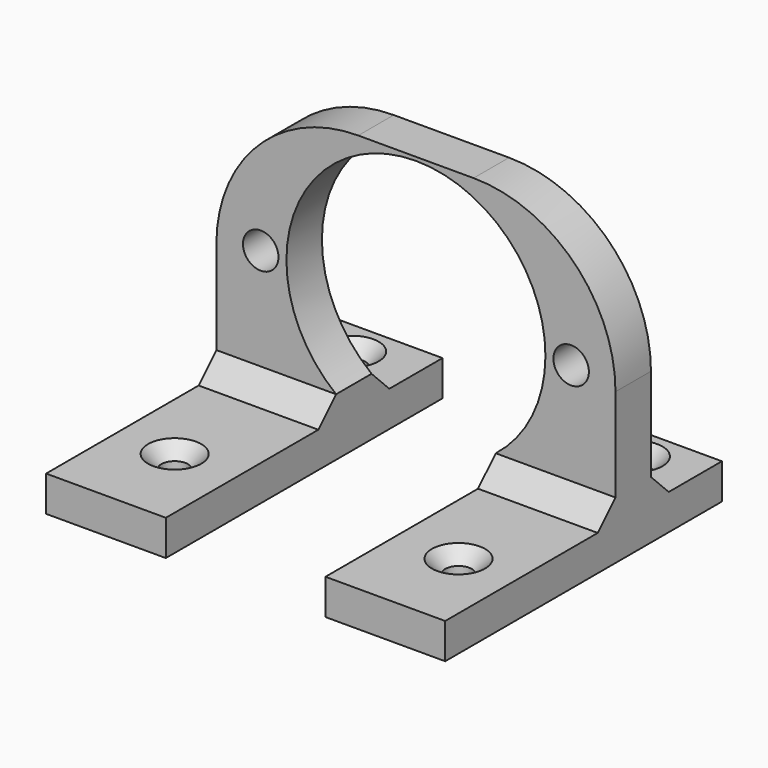
from build123d import *

# Parameters (mm, degrees)
SKETCH001_R     = 2
PAD_DEPTH       = 5
SKETCH_W        = 13.5
SKETCH_H        = 4
PAD001_DEPTH    = 24
SKETCH002_W     = 13.5
SKETCH002_H     = 4
PAD002_DEPTH    = 10
SKETCH003_R     = 1.5
POCKET_DEPTH    = 5
CHAMFER_SIZE    = 1.5
CHAMFER001_SIZE = 2.5
FILLET_R        = 16


with BuildPart() as part:
    # Sketch001 → Pad (new body)
    with BuildSketch(Plane.XZ):
        with BuildLine():
            Line((-22.5, 33), (22.5, 33))
            Line((22.5, 33), (22.5, 0))
            Line((9, 0), (22.5, 0))
            Line((9, 6.503914), (9, 0))
            ThreePointArc((9, 6.503914), (0, 32.6), (-9, 6.503914))
            Line((-9, 0), (-9, 6.503914))
            Line((-22.5, 0), (-9, 0))
            Line((-22.5, 0), (-22.5, 33))
        make_face()
        with Locations((-17.5, 18)):
            Circle(SKETCH001_R, mode=Mode.SUBTRACT)
        with Locations((17.5, 18)):
            Circle(SKETCH001_R, mode=Mode.SUBTRACT)
    extrude(amount=PAD_DEPTH)

    # Sketch (on Face12 of Pad) → Pad001 (join)
    with BuildSketch(Plane.XZ.offset(5)):
        with Locations((-15.75, 2)):
            Rectangle(SKETCH_W, SKETCH_H)
        with Locations((15.75, 2)):
            Rectangle(SKETCH_W, SKETCH_H)
    extrude(amount=PAD001_DEPTH)

    # Sketch002 (on Face1 of Pad001) → Pad002 (join)
    with BuildSketch(Plane(origin=(0, 0, 0), x_dir=(1, 0, 0), z_dir=(0, 1, 0))):
        with Locations((-15.75, -2)):
            Rectangle(SKETCH002_W, SKETCH002_H)
        with Locations((15.75, -2)):
            Rectangle(SKETCH002_W, SKETCH002_H)
    extrude(amount=PAD002_DEPTH)

    # Sketch003 (on Face6 of Pad002) → Pocket (cut)
    with BuildSketch(Plane(origin=(0, 0, 4), x_dir=(-1, 0, 0), z_dir=(0, 0, 1))):
        with Locations((-16, 19)):
            Circle(SKETCH003_R)
        with Locations((16, 19)):
            Circle(SKETCH003_R)
        with Locations((-16, -6)):
            Circle(SKETCH003_R)
        with Locations((16, -6)):
            Circle(SKETCH003_R)
    extrude(amount=-POCKET_DEPTH, mode=Mode.SUBTRACT)

    # Chamfer
    chamfer_edges = [part.edges().sort_by_distance(p)[0] for p in [
        (-14.5, -19, 4),
        (17.5, -19, 4),
        (-14.5, 6, 4),
        (17.5, 6, 4),
    ]]
    chamfer(chamfer_edges, length=CHAMFER_SIZE)

    # Chamfer001
    chamfer001_edges = [part.edges().sort_by_distance(p)[0] for p in [
        (-15.75, -5, 4),
        (15.75, -5, 4),
        (15.75, 0, 4),
        (-15.75, 0, 4),
    ]]
    chamfer(chamfer001_edges, length=CHAMFER001_SIZE)

    # Fillet
    fillet_edges = [part.edges().sort_by_distance(p)[0] for p in [
        (-22.5, -2.5, 33),
        (22.5, -2.5, 33),
    ]]
    fillet(fillet_edges, radius=FILLET_R)


solid = part.part
